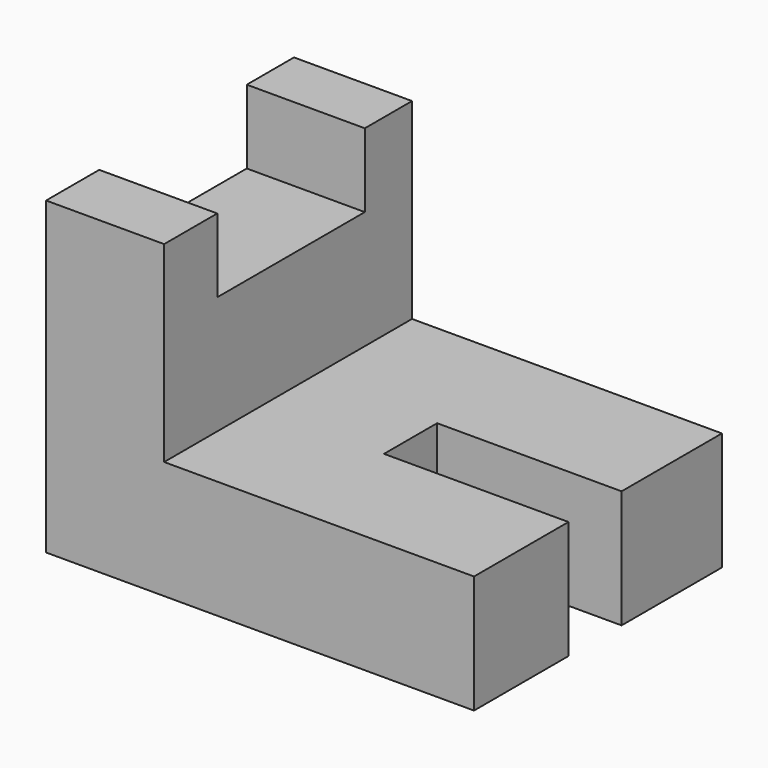
from build123d import *

# Parameters (mm, degrees)
F1_DEPTH = 42
F2_W     = 16
F2_H     = 25
F3_DEPTH = 10
F4_W     = 25
F4_H     = 9
F5_DEPTH = 16.001


with BuildPart() as f1:
    # F0 (on Front) → F1 (new body)
    with BuildSketch(Plane.XZ):
        Polygon((0, 42), (0, 0), (58, 0), (58, 16), (16, 16), (16, 42), align=None)
    extrude(amount=F1_DEPTH)

    # F2 (on face) → F3 (cut)
    with BuildSketch(Plane.XY.offset(42)):
        with Locations((8, -20.5)):
            Rectangle(F2_W, F2_H)
    extrude(amount=-F3_DEPTH, mode=Mode.SUBTRACT)

    # F4 (on face) → F5 (cut, through all)
    with BuildSketch(Plane.XY.offset(16)):
        with Locations((45.5, -21.5)):
            Rectangle(F4_W, F4_H)
    extrude(amount=-F5_DEPTH, mode=Mode.SUBTRACT)


solid = f1.part
